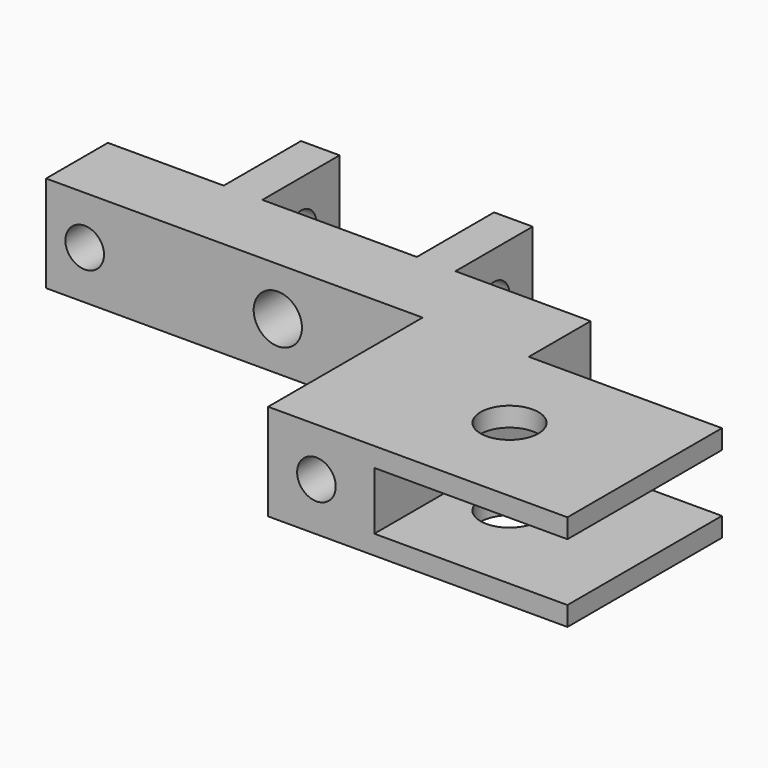
from build123d import *

# Parameters (mm, degrees)
F0_R     = 1.5
F0_W     = 2
F0_H     = 5
F1_DEPTH = 2.5
F2_R     = 1.25
F2_R_2   = 1
F3_DEPTH = 9.001
F4_W     = 10
F4_H     = 3
F5_DEPTH = 19.001
F6_R     = 1
F7_DEPTH = 4
F8_R     = 1
F9_DEPTH = 18.001


with BuildPart() as f1:
    # F0 (on Top) → F1 (new body, symmetric)
    with BuildSketch(Plane.XY):
        Polygon((23, -5), (23, 5), (13, 5), (13, 9), (6, 9), (4, 9), (-4, 9), (-6, 9), (-12, 9), (-12, 5), (7.5, 5), (7.5, -5), align=None)
        with Locations((16, 0)):
            Circle(F0_R, mode=Mode.SUBTRACT)
        with Locations((5, 11.5)):
            Rectangle(F0_W, F0_H)
        with Locations((-5, 11.5)):
            Rectangle(F0_W, F0_H)
    extrude(amount=F1_DEPTH, both=True)

    # F2 (on face) → F3 (cut, through all)
    with BuildSketch(Plane.XZ.offset(-5)):
        Circle(F2_R)
        with Locations((-10, 0)):
            Circle(F2_R_2)
    extrude(amount=-F3_DEPTH, mode=Mode.SUBTRACT)

    # F4 (on face) → F5 (cut, through all)
    with BuildSketch(Plane.XZ.offset(5)):
        with Locations((18, 0)):
            Rectangle(F4_W, F4_H)
    extrude(amount=-F5_DEPTH, mode=Mode.SUBTRACT)

    # F6 (on face) → F7 (cut)
    with BuildSketch(Plane.XZ.offset(5)):
        with Locations((10, 0)):
            Circle(F6_R)
    extrude(amount=-F7_DEPTH, mode=Mode.SUBTRACT)

    # F8 (on face) → F9 (cut, through all)
    with BuildSketch(Plane.YZ.offset(6)):
        with Locations((11.5, 0)):
            Circle(F8_R)
    extrude(amount=-F9_DEPTH, mode=Mode.SUBTRACT)


solid = f1.part
